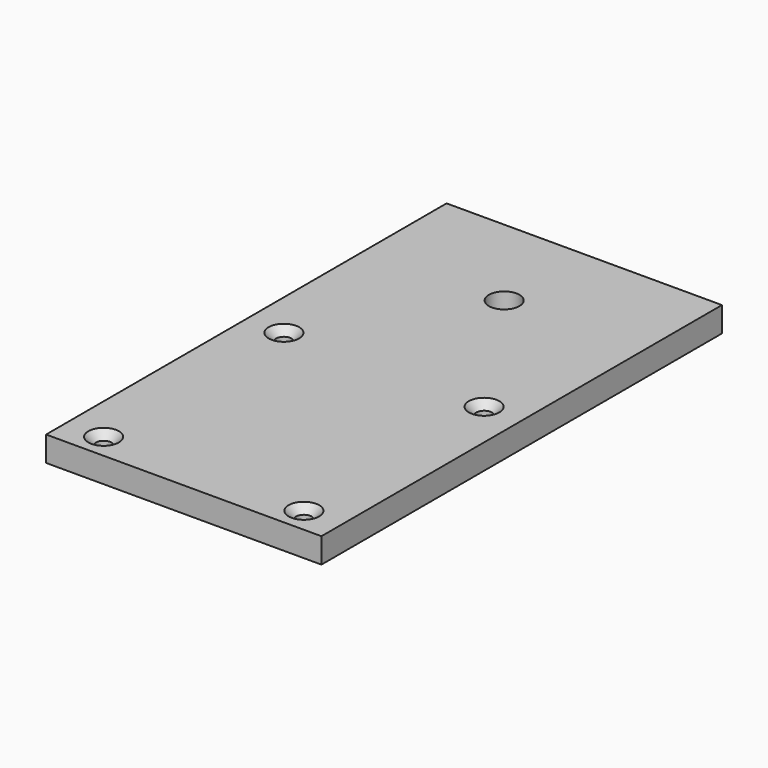
from build123d import *

# Parameters (mm, degrees)
F0_W     = 55
F0_H     = 100
F0_R     = 1.55
F0_R_2   = 3.05
F1_DEPTH = 5
F2_SIZE  = 1.5


with BuildPart() as f1:
    # F0 (on Top) → F1 (new body)
    with BuildSketch(Plane.XY):
        with Locations((0, 22.5)):
            Rectangle(F0_W, F0_H)
        with Locations((-20, -22.5)):
            Circle(F0_R, mode=Mode.SUBTRACT)
        with Locations((20, -22.5)):
            Circle(F0_R, mode=Mode.SUBTRACT)
        with Locations((-20, 22.5)):
            Circle(F0_R, mode=Mode.SUBTRACT)
        with Locations((20, 22.5)):
            Circle(F0_R, mode=Mode.SUBTRACT)
        with Locations((0, 52.5)):
            Circle(F0_R_2, mode=Mode.SUBTRACT)
    extrude(amount=F1_DEPTH)

    # F2
    f2_edges = [f1.edges().sort_by_distance(p)[0] for p in [
        (-21.55, 22.5, 5),
        (18.45, 22.5, 5),
        (18.45, -22.5, 5),
        (-21.55, -22.5, 5),
    ]]
    chamfer(f2_edges, length=F2_SIZE)


solid = f1.part
